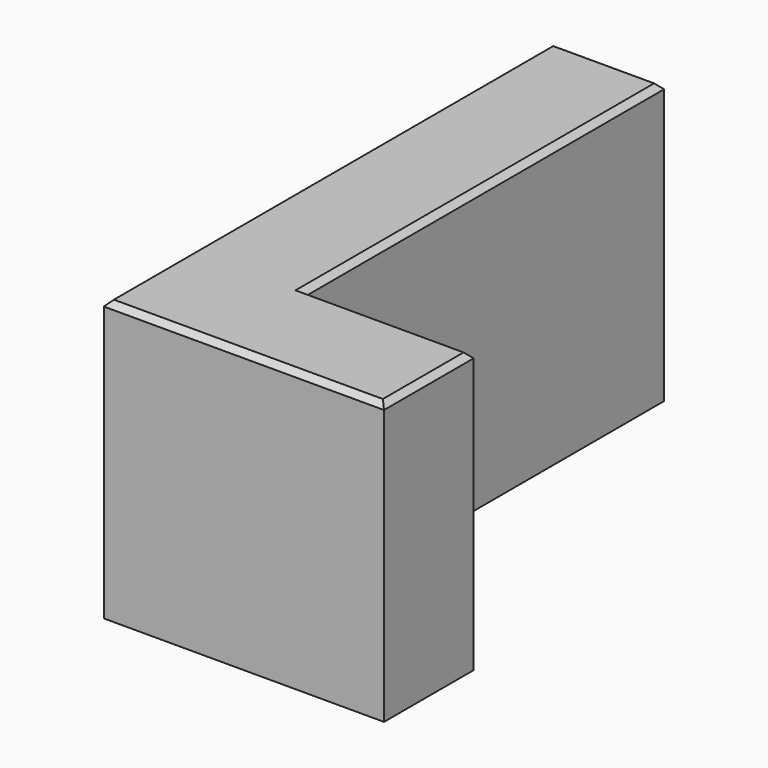
from build123d import *

# Parameters (mm, degrees)
F1_DEPTH = 50
F2_SIZE  = 1


with BuildPart() as f1:
    # F0 (on Top) → F1 (new body)
    with BuildSketch(Plane.XY):
        Polygon((-67.674917, 59.789743), (-67.674917, -40.210257), (-17.674917, -40.210257), (-17.674917, -20.210257), (-47.674917, -20.210257), (-47.674917, 59.789743), align=None)
    extrude(amount=F1_DEPTH)

    # F2
    f2_edges = [f1.edges().sort_by_distance(p)[0] for p in [
        (-57.674917, 59.789743, 50),
        (-47.674917, 19.789743, 50),
        (-67.674917, 9.789743, 50),
        (-42.674917, -40.210257, 50),
        (-17.674917, -30.210257, 50),
        (-32.674917, -20.210257, 50),
    ]]
    chamfer(f2_edges, length=F2_SIZE)


solid = f1.part
